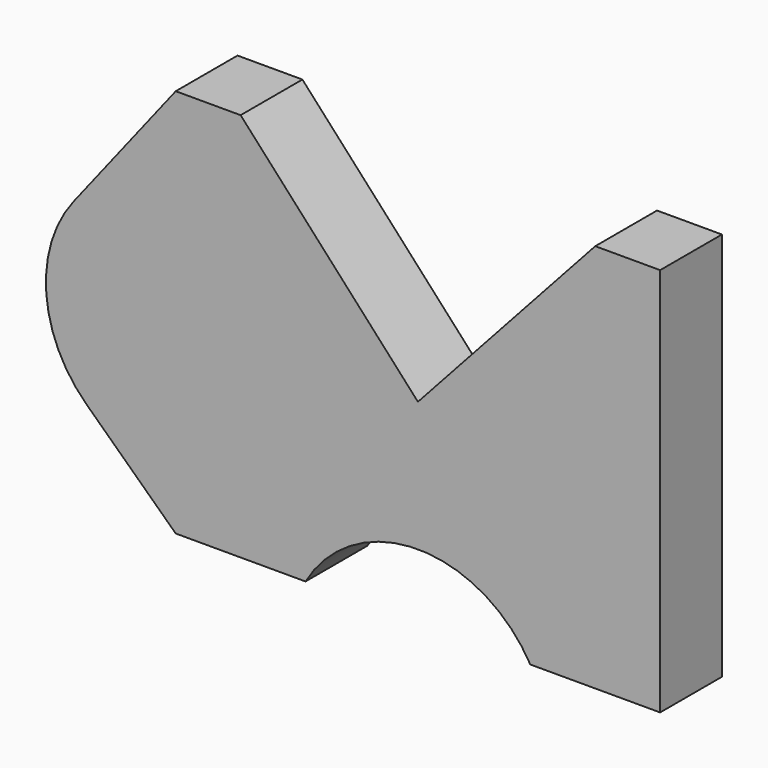
from build123d import *

# Parameters (mm, degrees)
F1_DEPTH = 30.226


with BuildPart() as f1:
    # F0 (on Front) → F1 (new body)
    with BuildSketch(Plane.XZ):
        with BuildLine():
            Line((69.394091, 76.2), (0, 0))
            Line((0, 0), (-69.394091, 76.2))
            Line((-69.394091, 76.2), (-94.794091, 76.2))
            Line((-94.794091, 76.2), (-134.777937, 25.181414))
            ThreePointArc((-134.777937, 25.181414), (-145.457577, -9.876098), (-129.769607, -42.996657))
            Line((-129.769607, -42.996657), (-94.794091, -76.2))
            Line((-94.794091, -76.2), (-43.994091, -76.2))
            ThreePointArc((-43.994091, -76.2), (0, -50.8), (43.994091, -76.2))
            Line((43.994091, -76.2), (94.794091, -76.2))
            Line((94.794091, -76.2), (94.794091, 76.2))
            Line((94.794091, 76.2), (69.394091, 76.2))
        make_face()
    extrude(amount=-F1_DEPTH)


solid = f1.part
